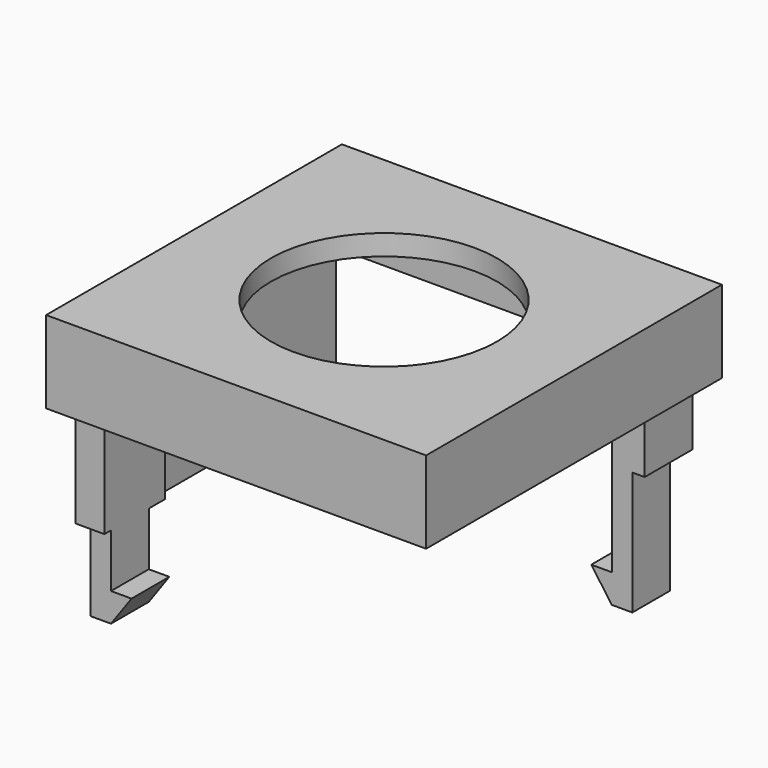
from build123d import *

# Parameters (mm, degrees)
SKETCH045_W     = 18.5
SKETCH045_H     = 18
PAD029_DEPTH    = 4
SKETCH046_W     = 16.9
SKETCH046_H     = 16.4
POCKET014_DEPTH = 3
SKETCH047_R     = 5.5
POCKET015_DEPTH = 5
SKETCH048_W     = 1
SKETCH048_H     = 2.3
PAD030_DEPTH    = 12
SKETCH049_W     = 1
SKETCH049_H     = 2.3
PAD031_DEPTH    = 1.4
POCKET016_DEPTH = 2.3
POCKET017_DEPTH = 2.3
PAD071_DEPTH    = 8
SKETCH133_W     = 1.6
SKETCH133_H     = 2.9
PAD072_DEPTH    = 6


with BuildPart() as part:
    # Sketch045 → Pad029 (new body)
    with BuildSketch(Plane(origin=(78.2, -39.95, 23), x_dir=(1, 0, 0), z_dir=(0, 0, 1))):
        Rectangle(SKETCH045_W, SKETCH045_H)
    extrude(amount=PAD029_DEPTH)

    # Sketch046 (on Face5 of Pad029) → Pocket014 (cut)
    with BuildSketch(Plane(origin=(0, 0, 23), x_dir=(1, 0, 0), z_dir=(0, 0, -1))):
        with Locations((78.2, 39.95)):
            Rectangle(SKETCH046_W, SKETCH046_H)
    extrude(amount=-POCKET014_DEPTH, mode=Mode.SUBTRACT)

    # Sketch047 (on Face5 of Pocket014) → Pocket015 (cut)
    with BuildSketch(Plane.XY.offset(27)):
        with Locations((78.2, -39.95)):
            Circle(SKETCH047_R)
    extrude(amount=-POCKET015_DEPTH, mode=Mode.SUBTRACT)

    # Sketch048 (on Face12 of Pocket015) → Pad030 (join)
    with BuildSketch(Plane(origin=(0, 0, 26), x_dir=(1, 0, 0), z_dir=(0, 0, -1))):
        with Locations((85.55, 33.5)):
            Rectangle(SKETCH048_W, SKETCH048_H)
        with Locations((70.65, 46.6)):
            Rectangle(SKETCH048_W, SKETCH048_H)
    extrude(amount=PAD030_DEPTH)

    # Sketch049 (on Face21 of Pad030) → Pad031 (join)
    with BuildSketch(Plane(origin=(0, 0, 14), x_dir=(1, 0, 0), z_dir=(0, 0, -1))):
        with Locations((71.65, 46.6)):
            Rectangle(SKETCH049_W, SKETCH049_H)
        with Locations((84.55, 33.5)):
            Rectangle(SKETCH049_W, SKETCH049_H)
    extrude(amount=-PAD031_DEPTH)

    # Sketch050 (on Face24 of Pad031) → Pocket016 (cut)
    with BuildSketch(Plane(origin=(0, -45.45, 0), x_dir=(-1, 0, 0), z_dir=(0, 1, 0))):
        Polygon((-72.15, 15.4), (-71.15, 14), (-72.15, 14), align=None)
    extrude(amount=-POCKET016_DEPTH, mode=Mode.SUBTRACT)

    # Sketch051 (on Face28 of Pocket016) → Pocket017 (cut)
    with BuildSketch(Plane.XZ.offset(34.65)):
        Polygon((85.05, 14), (84.05, 15.4), (84.05, 14), align=None)
    extrude(amount=-POCKET017_DEPTH, mode=Mode.SUBTRACT)

    # Sketch132 (on Face12 of Pocket017) → Pad071 (join)
    with BuildSketch(Plane(origin=(0, 0, 26), x_dir=(1, 0, 0), z_dir=(0, 0, -1))):
        Polygon((71.15, 48.15), (69.75, 48.15), (69.75, 33.55), (70.75, 33.55), (70.75, 44.45), (71.15, 44.45), align=None)
    extrude(amount=PAD071_DEPTH)

    # Sketch133 (on Face18 of Pad071) → Pad072 (join)
    with BuildSketch(Plane(origin=(0, 0, 26), x_dir=(1, 0, 0), z_dir=(0, 0, -1))):
        with Locations((85.85, 33.2)):
            Rectangle(SKETCH133_W, SKETCH133_H)
    extrude(amount=PAD072_DEPTH)


with BuildPart() as part_1:
    # Body015 placement: moved
    add(part.part.moved(Location((0, 0, -4))))


solid = part_1.part
